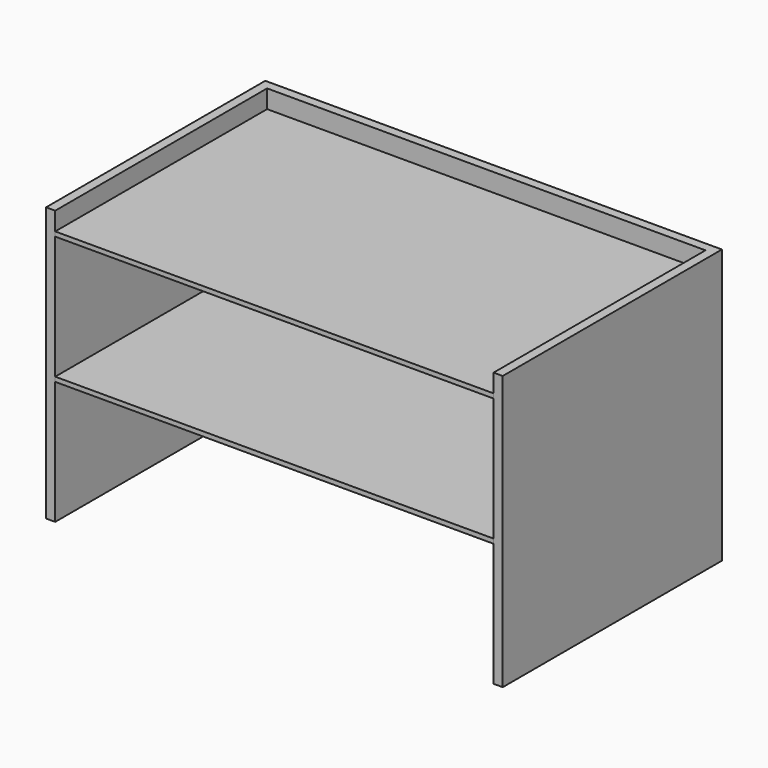
from build123d import *

# Parameters (mm, degrees)
F1_DEPTH = 300
F3_W     = 480
F3_H     = 290
F4_DEPTH = 5
F6_W     = 480
F6_H     = 290
F7_DEPTH = 5


with BuildPart() as f1:
    # F0 (on Top) → F1 (new body)
    with BuildSketch(Plane.XY):
        Polygon((259.9160554688, 300), (-240.0839445312, 300), (-240.0839445312, 0), (-230.0839445312, 0), (-230.0839445312, 290), (249.9160554688, 290), (249.9160554688, 0), (259.9160554688, 0), align=None)
    extrude(amount=F1_DEPTH)


with BuildPart() as f4:
    # F3 (on offset) → F4 (new body)
    with BuildSketch(Plane.XY.offset(135)):
        with Locations((9.9160554688, 145)):
            Rectangle(F3_W, F3_H)
    extrude(amount=F4_DEPTH)


with BuildPart() as f7:
    # F6 (on offset) → F7 (new body)
    with BuildSketch(Plane.XY.offset(275)):
        with Locations((9.9160554688, 145)):
            Rectangle(F6_W, F6_H)
    extrude(amount=F7_DEPTH)


solid = Compound([f1.part, f4.part, f7.part])
